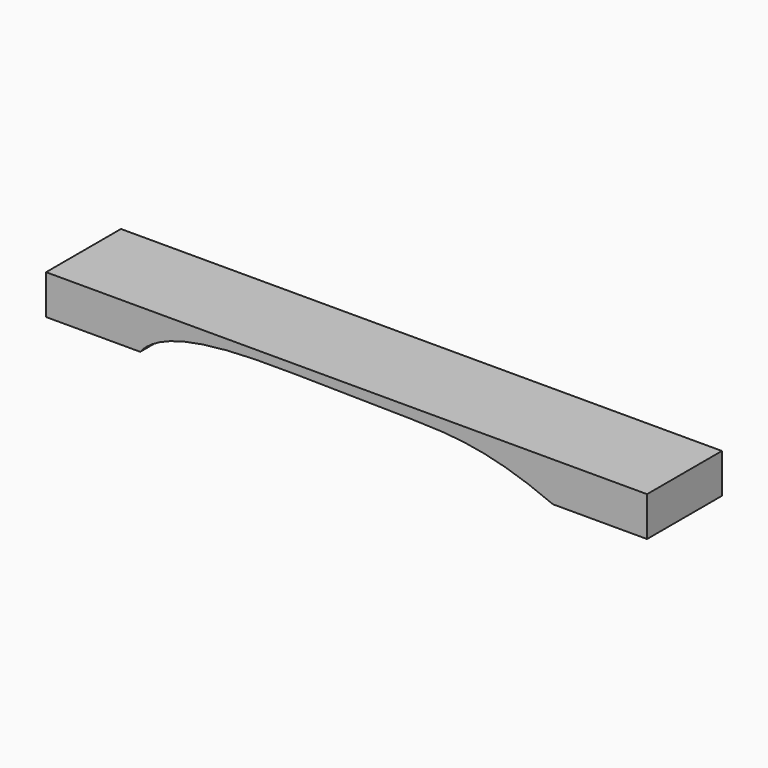
from build123d import *

# Parameters (mm, degrees)
BAR_DEPTH = 68.58


with BuildPart() as part:
    # Sketch → Bar (new body)
    with BuildSketch(Plane.XZ):
        with BuildLine():
            Line((68.98, 0), (0, 0))
            Line((0, 0), (0, 28.96))
            Line((0, 28.96), (440.4, 28.96))
            Line((440.4, 28.96), (440.4, 0))
            Line((440.4, 0), (371.42, 0))
            add(Edge.make_bspline(
                [(371.42, 0), (326.75, 19.25), (269.78, 21.62), (209.11, 21.95), (88.11, 24.09), (68.98, 0)],
                knots=[0, 0, 0, 0, 0.333333, 0.666667, 1, 1, 1, 1], degree=3))
        make_face()
    extrude(amount=BAR_DEPTH)


solid = part.part
